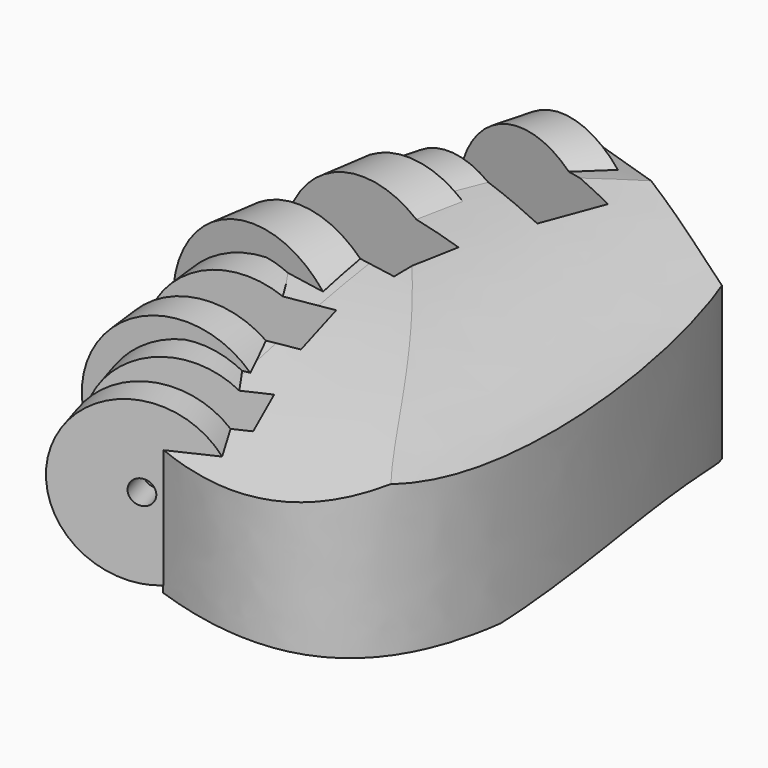
from build123d import *

# Parameters (mm, degrees)
F1_DEPTH  = 30
F2_W      = 74
F2_H      = 37
F3_DEPTH  = 40.7
F5_DEPTH  = 75.4
F15_R     = 12
F16_DEPTH = 9.25
F17_W     = 8.5
F17_H     = 30
F18_DEPTH = 12.5
F19_R     = 12.5
F20_DEPTH = 10.25
F21_W     = 8.5
F21_H     = 27
F22_DEPTH = 12.5
F23_R     = 11
F24_DEPTH = 7.75
F25_W     = 6.5
F25_H     = 24
F26_DEPTH = 11
F27_R     = 10
F28_DEPTH = 6.75
F29_W     = 5.5
F29_H     = 24
F30_DEPTH = 10
F31_R     = 1.5
F32_DEPTH = 9.25
F33_R     = 1.5
F34_DEPTH = 10.25
F35_R     = 1.5
F36_DEPTH = 7.75
F37_R     = 1.5
F38_DEPTH = 6.75


with BuildPart() as f1:
    # F0 (on Top) → F1 (new body)
    with BuildSketch(Plane.XY):
        with BuildLine():
            add(Edge.make_bspline(
                [(0, 0), (-12, 14), (-12, 36), (0, 68)],
                knots=[0, 0, 0, 0, 68, 68, 68, 68], degree=3))
            add(Edge.make_bspline(
                [(22.9128784748, 58), (25.9128784748, 49), (40, -13), (0, 0)],
                knots=[0, 0, 0, 0, 62.3618473107, 62.3618473107, 62.3618473107, 62.3618473107], degree=3))
            Line((22.9128784748, 58), (0, 68))
        make_face()
    extrude(amount=F1_DEPTH)

    # F2 (on Right) → F3 (cut, symmetric)
    with BuildSketch(Plane.YZ):
        with Locations((33, 14.5)):
            Rectangle(F2_W, F2_H)
        with BuildLine():
            add(Edge.make_bspline(
                [(68, 26), (44, 32), (28, 28), (-2, 20)],
                knots=[0, 0, 0, 0, 70.256672281, 70.256672281, 70.256672281, 70.256672281], degree=3))
            Line((68, 26), (68, 1))
            add(Edge.make_bspline(
                [(68, 1), (50, 5), (43, 8), (0, 0)],
                knots=[0, 0, 0, 0, 68.0073525437, 68.0073525437, 68.0073525437, 68.0073525437], degree=3))
            Line((0, 0), (-2, 0))
            Line((-2, 0), (-2, 20))
        make_face(mode=Mode.SUBTRACT)
    extrude(amount=F3_DEPTH, both=True, mode=Mode.SUBTRACT)

    # F4 (on Front) → F5 (intersect, symmetric)
    with BuildSketch(Plane.XZ):
        with BuildLine():
            add(Edge.make_bspline(
                [(-9, 29), (13, 29), (20, 22), (28, 21)],
                knots=[0, 0, 0, 0, 37.8549864615, 37.8549864615, 37.8549864615, 37.8549864615], degree=3))
            Line((-9, 29), (-9, 5))
            add(Edge.make_bspline(
                [(28, 3), (15, 4), (9.2933441732, 5), (-9, 5)],
                knots=[0, 0, 0, 0, 37.0540146273, 37.0540146273, 37.0540146273, 37.0540146273], degree=3))
            Line((28, 3), (28, 21))
        make_face()
    extrude(amount=F5_DEPTH, both=True, mode=Mode.INTERSECT)

    # F15 (on line) → F16 (join, symmetric)
    with BuildSketch(Plane(origin=(13.8740834784, 51.7787844498, 0), x_dir=(-0.9659258263, 0.2588190451, 0), z_dir=(0.2588190451, 0.9659258263, 0))):
        with Locations((18.4146402794, 17.5)):
            Circle(F15_R)
    extrude(amount=F16_DEPTH, both=True)

    # F17 (on line) → F18 (cut, symmetric)
    with BuildSketch(Plane(origin=(-17.7871766277, 4.766059613, 0), x_dir=(0.2588190451, 0.9659258263, 0), z_dir=(0.9659258263, -0.2588190451, 0))):
        with Locations((53.6053421915, 19)):
            Rectangle(F17_W, F17_H)
    extrude(amount=F18_DEPTH, both=True, mode=Mode.SUBTRACT)

    # F19 (on line) → F20 (join, symmetric)
    with BuildSketch(Plane(origin=(5.3066283632, 35.5074794767, 0), x_dir=(-0.9890158634, 0.1478094111, 0), z_dir=(0.1478094111, 0.9890158634, 0))):
        with Locations((13.7109779403, 18)):
            Circle(F19_R)
    extrude(amount=F20_DEPTH, both=True)

    # F21 (on line) → F22 (cut, symmetric)
    with BuildSketch(Plane(origin=(-13.5603746851, 2.0266115754, 0), x_dir=(0.1478094111, 0.9890158634, 0), z_dir=(0.9890158634, -0.1478094111, 0))):
        with Locations((35.9018300839, 17.5)):
            Rectangle(F21_W, F21_H)
    extrude(amount=F22_DEPTH, both=True, mode=Mode.SUBTRACT)

    # F23 (on line) → F24 (join, symmetric)
    with BuildSketch(Plane(origin=(-2.488829405, 20.2698888748, 0), x_dir=(-0.9925461516, -0.1218693434, 0), z_dir=(-0.1218693434, 0.9925461516, 0))):
        with Locations((6.0375956918, 16.5)):
            Circle(F23_R)
    extrude(amount=F24_DEPTH, both=True)

    # F25 (on line) → F26 (cut, symmetric)
    with BuildSketch(Plane(origin=(-5.9925923691, -0.7357978227, 0), x_dir=(-0.1218693434, 0.9925461516, 0), z_dir=(0.9925461516, 0.1218693434, 0))):
        with Locations((20.6721122023, 16.5)):
            Rectangle(F25_W, F25_H)
    extrude(amount=F26_DEPTH, both=True, mode=Mode.SUBTRACT)

    # F27 (on line) → F28 (join, symmetric)
    with BuildSketch(Plane(origin=(-1.947916113, 6.3713465188, 0), x_dir=(-0.956304756, -0.2923717047, 0), z_dir=(-0.2923717047, 0.956304756, 0))):
        with Locations((2.1474557861, 15.5)):
            Circle(F27_R)
    extrude(amount=F28_DEPTH, both=True)

    # F29 (on line) → F30 (cut, symmetric)
    with BuildSketch(Plane(origin=(-2.0536221815, -0.627855309, 0), x_dir=(-0.2923717047, 0.956304756, 0), z_dir=(0.956304756, 0.2923717047, 0))):
        with Locations((6.6624645325, 16)):
            Rectangle(F29_W, F29_H)
    extrude(amount=F30_DEPTH, both=True, mode=Mode.SUBTRACT)

    # F31 (on line) → F32 (cut, symmetric)
    with BuildSketch(Plane(origin=(13.8740834784, 51.7787844498, 0), x_dir=(-0.9659258263, 0.2588190451, 0), z_dir=(0.2588190451, 0.9659258263, 0))):
        with Locations((18.4146402794, 17.5)):
            Circle(F31_R)
    extrude(amount=F32_DEPTH, both=True, mode=Mode.SUBTRACT)

    # F33 (on line) → F34 (cut, symmetric)
    with BuildSketch(Plane(origin=(5.3066283632, 35.5074794767, 0), x_dir=(-0.9890158634, 0.1478094111, 0), z_dir=(0.1478094111, 0.9890158634, 0))):
        with Locations((13.7109779403, 18)):
            Circle(F33_R)
    extrude(amount=F34_DEPTH, both=True, mode=Mode.SUBTRACT)

    # F35 (on line) → F36 (cut, symmetric)
    with BuildSketch(Plane(origin=(-2.488829405, 20.2698888748, 0), x_dir=(-0.9925461516, -0.1218693434, 0), z_dir=(-0.1218693434, 0.9925461516, 0))):
        with Locations((6.0375956918, 16.5)):
            Circle(F35_R)
    extrude(amount=F36_DEPTH, both=True, mode=Mode.SUBTRACT)

    # F37 (on face) → F38 (cut, symmetric)
    with BuildSketch(Plane(origin=(-1.143893925, 3.7415084399, 0), x_dir=(-0.956304756, -0.2923717047, 0), z_dir=(-0.2923717047, 0.956304756, 0))):
        with Locations((2.1474557861, 15.5)):
            Circle(F37_R)
    extrude(amount=F38_DEPTH, both=True, mode=Mode.SUBTRACT)


solid = f1.part
